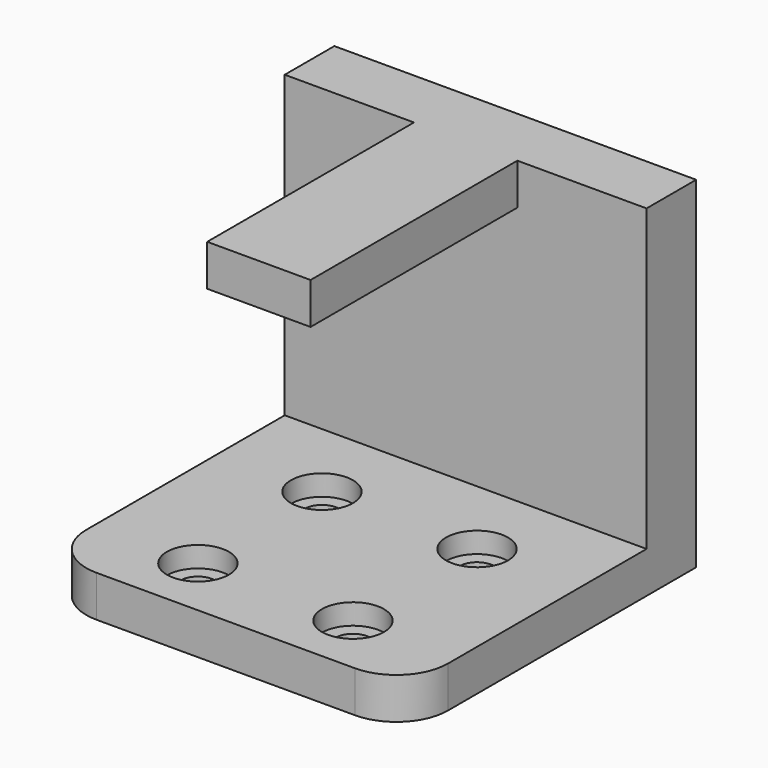
from build123d import *

# Parameters (mm, degrees)
F0_W     = 35
F0_H     = 35
F1_DEPTH = 4
F2_R     = 3
F2_R_2   = 1.675
F4_DEPTH = 2
F5_R     = 5
F6_DEPTH = 25
F3_W     = 35
F3_H     = 6
F7_DEPTH = 29
F9_DEPTH = 25


with BuildPart() as f1:
    # F0 (on Top) → F1 (new body)
    with BuildSketch(Plane.XY):
        with Locations((17.5, 17.5)):
            Rectangle(F0_W, F0_H)
    extrude(amount=F1_DEPTH)

    # F2 (on face) → F4 (cut)
    with BuildSketch(Plane.XY.offset(4)):
        with BuildLine():
            ThreePointArc((13, 21), (10, 24), (7, 21))
            ThreePointArc((7, 21), (10, 18), (13, 21))
        make_face()
        with BuildLine():
            ThreePointArc((8.325, 21), (10, 22.675), (11.675, 21))
            ThreePointArc((11.675, 21), (10, 19.325), (8.325, 21))
        make_face(mode=Mode.SUBTRACT)
        with Locations((25, 21)):
            Circle(F2_R)
        with Locations((25, 21)):
            Circle(F2_R_2, mode=Mode.SUBTRACT)
        with Locations((25, 6)):
            Circle(F2_R)
        with Locations((25, 6)):
            Circle(F2_R_2, mode=Mode.SUBTRACT)
        with BuildLine():
            ThreePointArc((13, 6), (7.87868, 8.12132), (10, 3))
            ThreePointArc((10, 3), (12.12132, 3.87868), (13, 6))
        make_face()
        with BuildLine():
            ThreePointArc((11.675, 6), (11.184404, 4.815596), (10, 4.325))
            ThreePointArc((10, 4.325), (8.815596, 7.184404), (11.675, 6))
        make_face(mode=Mode.SUBTRACT)
    extrude(amount=-F4_DEPTH, mode=Mode.SUBTRACT)

    # F5
    f5_edges = [f1.edges().sort_by_distance(p)[0] for p in [
        (0, 0, 2),
        (35, 0, 2),
    ]]
    fillet(f5_edges, radius=F5_R)

    # F2 (on face) → F6 (cut)
    with BuildSketch(Plane.XY.offset(4)):
        with BuildLine():
            ThreePointArc((8.325, 21), (10, 19.325), (11.675, 21))
            ThreePointArc((11.675, 21), (10, 22.675), (8.325, 21))
        make_face()
        with Locations((25, 21)):
            Circle(F2_R_2)
        with Locations((25, 6)):
            Circle(F2_R_2)
        with BuildLine():
            ThreePointArc((11.675, 6), (8.815596, 7.184404), (10, 4.325))
            ThreePointArc((10, 4.325), (11.184404, 4.815596), (11.675, 6))
        make_face()
    extrude(amount=-F6_DEPTH, mode=Mode.SUBTRACT)

    # F3 (on face) → F7 (join)
    with BuildSketch(Plane.XY.offset(4)):
        with Locations((17.5, 32)):
            Rectangle(F3_W, F3_H)
    extrude(amount=F7_DEPTH)

    # F8 (on face) → F9 (join)
    with BuildSketch(Plane.XZ.offset(-29)):
        Polygon((22.5, 33), (17.5, 33), (12.5, 33), (12.5, 29), (22.5, 29), align=None)
    extrude(amount=F9_DEPTH)


solid = f1.part
